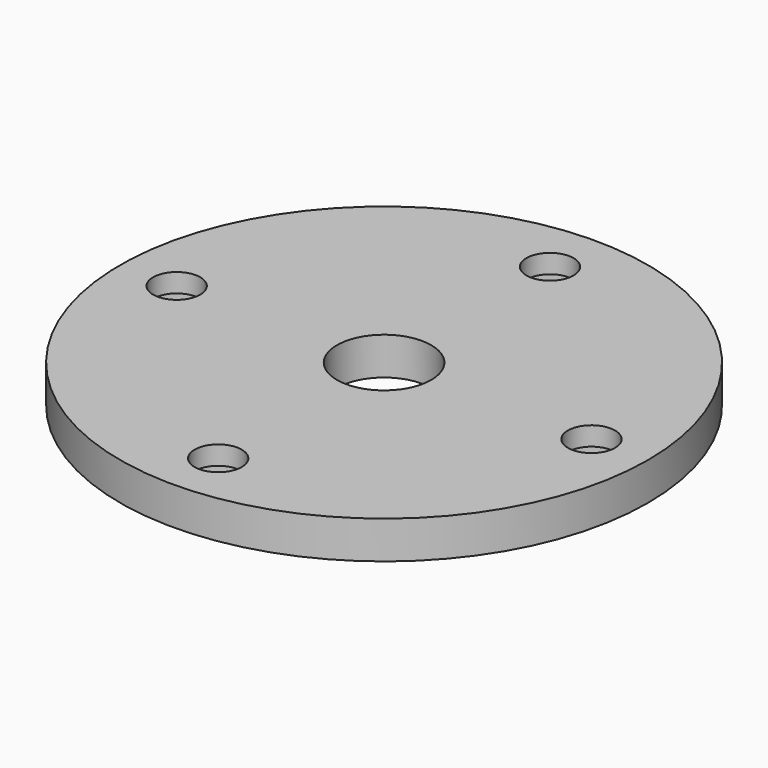
from build123d import *

# Parameters (mm, degrees)
SKETCH_R        = 14
SKETCH_R_2      = 1.25
PAD_DEPTH       = 2
SKETCH002_R     = 2.5
POCKET_DEPTH    = 9
SKETCH003_R     = 2.5
POCKET001_DEPTH = 1


with BuildPart() as part:
    # Sketch → Pad (new body)
    with BuildSketch(Plane.XY):
        Circle(SKETCH_R)
        with Locations((0, 11)):
            Circle(SKETCH_R_2, mode=Mode.SUBTRACT)
        with Locations((-11, 0)):
            Circle(SKETCH_R_2, mode=Mode.SUBTRACT)
        with Locations((0, -11)):
            Circle(SKETCH_R_2, mode=Mode.SUBTRACT)
        with Locations((11, 0)):
            Circle(SKETCH_R_2, mode=Mode.SUBTRACT)
    extrude(amount=PAD_DEPTH)

    # Sketch002 (on Face7 of Pad) → Pocket (cut)
    with BuildSketch(Plane.XY.offset(2)):
        Circle(SKETCH002_R)
    extrude(amount=-POCKET_DEPTH, mode=Mode.SUBTRACT)

    # Sketch003 (on Face2 of Pocket) → Pocket001 (cut)
    with BuildSketch(Plane(origin=(0, 0, 0), x_dir=(1, 0, 0), z_dir=(0, 0, -1))):
        with Locations((0, 11)):
            Circle(SKETCH003_R)
        with Locations((11, 0)):
            Circle(SKETCH003_R)
        with Locations((0, -11)):
            Circle(SKETCH003_R)
        with Locations((-11, 0)):
            Circle(SKETCH003_R)
    extrude(amount=-POCKET001_DEPTH, mode=Mode.SUBTRACT)


solid = part.part
